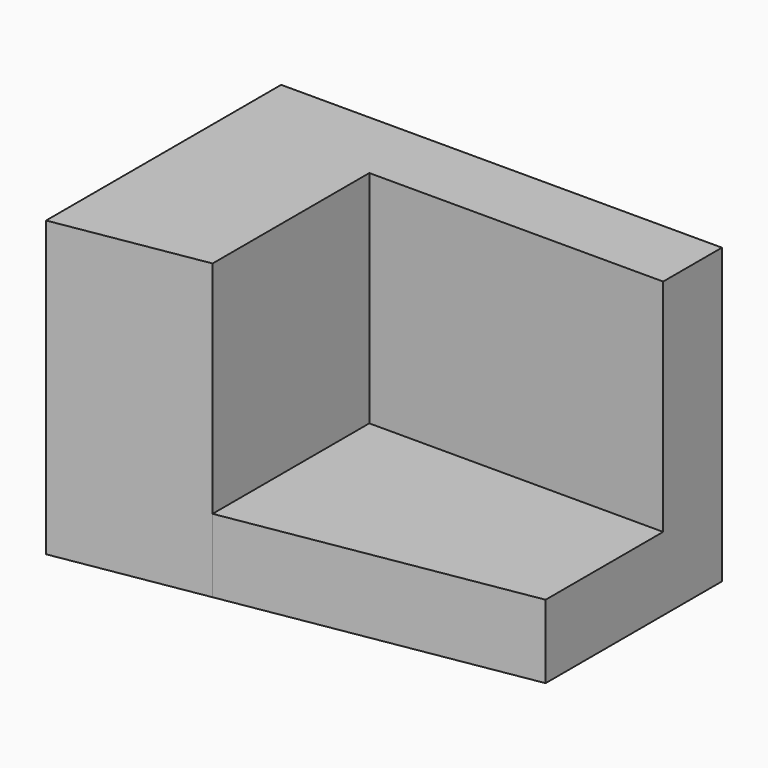
from build123d import *

# Parameters (mm, degrees)
F2_DEPTH = 50.8
F0_W     = 50.8
F0_H     = 38.1
F3_DEPTH = 38.1


with BuildPart() as f2:
    # F1 (on Top) → F2 (new body)
    with BuildSketch(Plane.XY):
        Polygon((0, 50.8), (0, 0), (25.4, 4.233333), (25.4, 38.1), (76.2, 38.1), (76.2, 50.8), align=None)
        Polygon((25.4, 38.1), (25.4, 4.233333), (76.2, 12.7), (76.2, 38.1), align=None)
    extrude(amount=F2_DEPTH)

    # F0 (on Front) → F3 (cut)
    with BuildSketch(Plane.XZ):
        with Locations((50.8, 31.75)):
            Rectangle(F0_W, F0_H)
    extrude(amount=-F3_DEPTH, mode=Mode.SUBTRACT)


solid = f2.part
